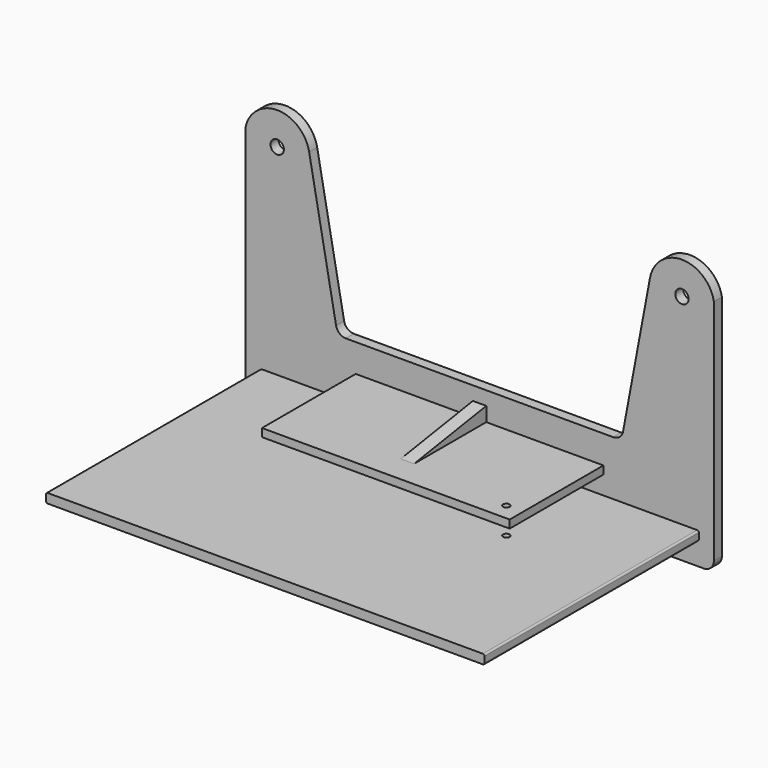
from build123d import *

# Parameters (mm, degrees)
F1_DEPTH = 83
F0_W     = 37
F0_H     = 2.4
F2_DEPTH = 38
F3_DEPTH = 3
F4_D     = 4
F5_D     = 4
F7_DEPTH = 2
F8_DEPTH = 2
F10_D    = 2


with BuildPart() as f1:
    # F0 (on Front) → F1 (new body)
    with BuildSketch(Plane.XZ):
        with BuildLine():
            Line((-65, 6.656936314), (0, 6.656936314))
            Line((0, 6.656936314), (0, 9.456936314))
            Line((0, 9.456936314), (-65, 9.456936314))
            ThreePointArc((-65, 9.456936314), (-65.3535533906, 9.3104897046), (-65.5, 8.956936314))
            Line((-65.5, 8.956936314), (-65.5, 7.156936314))
            ThreePointArc((-65.5, 7.156936314), (-65.3535533906, 6.8033829234), (-65, 6.656936314))
        make_face()
        with BuildLine():
            Line((0, 9.456936314), (0, 6.656936314))
            Line((0, 6.656936314), (65, 6.656936314))
            ThreePointArc((65, 6.656936314), (65.3535533906, 6.8033829234), (65.5, 7.156936314))
            Line((65.5, 7.156936314), (65.5, 8.956936314))
            ThreePointArc((65.5, 8.956936314), (65.3535533906, 9.3104897046), (65, 9.456936314))
            Line((65, 9.456936314), (0, 9.456936314))
        make_face()
    extrude(amount=F1_DEPTH)



with BuildPart() as f2:
    # F0 (on Front) → F2 (new body)
    with BuildSketch(Plane.XZ):
        with Locations((-18.5, 16.156936314)):
            Rectangle(F0_W, F0_H)
        with Locations((18.5, 16.156936314)):
            Rectangle(F0_W, F0_H)
    extrude(amount=F2_DEPTH)


with BuildPart() as f1_1:
    add(f1.part)

    add(f2.part)  # F3 merges F2
    # F0 (on Front) → F3 (join)
    with BuildSketch(Plane.XZ):
        with BuildLine():
            ThreePointArc((-50.9090917143, 71.1945314942), (-60.4545458571, 79.1209226904), (-70, 71.1945314942))
            Line((-70, 71.1945314942), (-50.9090917143, 71.1945314942))
        make_face()
        with BuildLine():
            Line((50.9090917143, 71.1945314942), (70, 71.1945314942))
            ThreePointArc((70, 71.1945314942), (60.4545458571, 79.1209226904), (50.9090917143, 71.1945314942))
        make_face()
        with BuildLine():
            Line((0, 6.656936314), (0, 0))
            Line((0, 0), (67, 0))
            ThreePointArc((67, 0), (69.1213203436, 0.8786796564), (70, 3))
            Line((70, 3), (70, 71.1945314942))
            Line((70, 71.1945314942), (50.9090917143, 71.1945314942))
            Line((50.9090917143, 71.1945314942), (42.8696187161, 28.1887182873))
            ThreePointArc((42.8696187161, 28.1887182873), (41.8372358629, 26.4319780432), (39.9207030491, 25.7399862697))
            Line((39.9207030491, 25.7399862697), (0, 25.7399862697))
            Line((0, 25.7399862697), (0, 17.356936314))
            Line((0, 17.356936314), (37, 17.356936314))
            Line((37, 17.356936314), (37, 14.956936314))
            Line((37, 14.956936314), (0, 14.956936314))
            Line((0, 14.956936314), (0, 9.456936314))
            Line((0, 9.456936314), (65, 9.456936314))
            ThreePointArc((65, 9.456936314), (65.3535533906, 9.3104897046), (65.5, 8.956936314))
            Line((65.5, 8.956936314), (65.5, 7.156936314))
            ThreePointArc((65.5, 7.156936314), (65.3535533906, 6.8033829234), (65, 6.656936314))
            Line((65, 6.656936314), (0, 6.656936314))
        make_face()
        with BuildLine():
            Line((-70, 71.1945314942), (-70, 3))
            ThreePointArc((-70, 3), (-69.1213203436, 0.8786796564), (-67, 0))
            Line((-67, 0), (0, 0))
            Line((0, 0), (0, 6.656936314))
            Line((0, 6.656936314), (-65, 6.656936314))
            ThreePointArc((-65, 6.656936314), (-65.3535533906, 6.8033829234), (-65.5, 7.156936314))
            Line((-65.5, 7.156936314), (-65.5, 8.956936314))
            ThreePointArc((-65.5, 8.956936314), (-65.3535533906, 9.3104897046), (-65, 9.456936314))
            Line((-65, 9.456936314), (0, 9.456936314))
            Line((0, 9.456936314), (0, 14.956936314))
            Line((0, 14.956936314), (-37, 14.956936314))
            Line((-37, 14.956936314), (-37, 17.356936314))
            Line((-37, 17.356936314), (0, 17.356936314))
            Line((0, 17.356936314), (0, 25.7399862697))
            Line((0, 25.7399862697), (-39.9207030491, 25.7399862697))
            ThreePointArc((-39.9207030491, 25.7399862697), (-41.8372358629, 26.4319780432), (-42.8696187161, 28.1887182873))
            Line((-42.8696187161, 28.1887182873), (-50.9090917143, 71.1945314942))
            Line((-50.9090917143, 71.1945314942), (-70, 71.1945314942))
        make_face()
    extrude(amount=F3_DEPTH)

    # F4 (through all)
    with Locations(Plane(origin=(0, 0, 0), x_dir=(1, 0, 0), z_dir=(0, 1, 0))):
        with Locations((-60.4545458571, -69.4101117817)):
            Hole(F4_D / 2)

    # F5 (through all)
    with Locations(Plane(origin=(0, 0, 0), x_dir=(1, 0, 0), z_dir=(0, 1, 0))):
        with Locations((60.4545458571, -69.4101117817)):
            Hole(F5_D / 2)

    # F6 (on Right) → F7 (join, symmetric)
    with BuildSketch(Plane.YZ):
        Polygon((-53.0555397272, 6.8902592175), (0, 0), (0, 6.8902592175), align=None)
    extrude(amount=F7_DEPTH, both=True)

    # F6 (on Right) → F8 (join, symmetric)
    with BuildSketch(Plane.YZ):
        Polygon((-30.1237229723, 17.327228561), (-2.9568942264, 17.3339545727), (-2.9568942264, 21.6480610112), align=None)
    extrude(amount=F8_DEPTH, both=True)

    # F10 (through all)
    with Locations(Plane.XY.offset(17.356936314)):
        with Locations((32, -33)):
            Hole(F10_D / 2)


solid = f1_1.part
